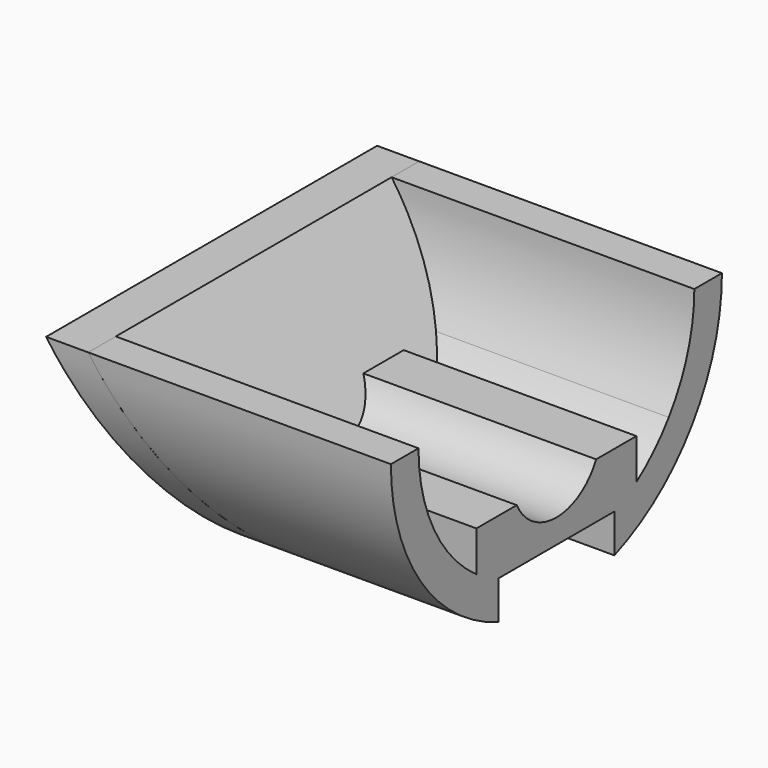
from build123d import *

# Parameters (mm, degrees)
F1_DEPTH      = 100
F3_DEPTH      = 79.9
F3_DEPTH_BACK = 98
F6_DEPTH      = 74.8
F6_DEPTH_BACK = 93.6
F7_DEPTH      = 115.8
F8_DEPTH      = 43


with BuildPart() as f1:
    # F0 (on Right) → F1 (new body)
    with BuildSketch(Plane.YZ):
        with BuildLine():
            Line((-50, 0), (-60, 0))
            ThreePointArc((-60, 0), (-49.2950301755, -34.205262753), (-21, -56.2049819856))
            Line((-21, -56.2049819856), (-21, -45.3762052182))
            ThreePointArc((-21, -45.3762052182), (-21.3980741453, -45.1898486706), (-21.7944947177, -45))
            ThreePointArc((-21.7944947177, -45), (-25.4867934421, -43.0165475142), (-29, -40.7308237088))
            ThreePointArc((-29, -40.7308237088), (-44.4409720866, -22.9128784748), (-50, 0))
        make_face()
        with BuildLine():
            Line((-29, -29), (-29, -40.7308237088))
            ThreePointArc((-29, -40.7308237088), (-25.4867934421, -43.0165475142), (-21.7944947177, -45))
            Line((-21.7944947177, -45), (-21, -45))
            Line((-21, -45), (21, -45))
            Line((21, -45), (21.7944947177, -45))
            ThreePointArc((21.7944947177, -45), (25.4867934421, -43.0165475142), (29, -40.7308237088))
            Line((29, -40.7308237088), (29, -29))
            Line((29, -29), (14.3874945699, -29))
            ThreePointArc((14.3874945699, -29), (0, -38), (-14.3874945699, -29))
            Line((-14.3874945699, -29), (-29, -29))
        make_face()
        with BuildLine():
            Line((21, -45.3762052182), (21, -56.2049819856))
            ThreePointArc((21, -56.2049819856), (49.2950301755, -34.205262753), (60, 0))
            Line((60, 0), (50, 0))
            ThreePointArc((50, 0), (47.626364471, -15.2226609789), (40.7308237088, -29))
            ThreePointArc((40.7308237088, -29), (35.3553390593, -35.3553390593), (29, -40.7308237088))
            ThreePointArc((29, -40.7308237088), (25.4867934421, -43.0165475142), (21.7944947177, -45))
            ThreePointArc((21.7944947177, -45), (21.3980741453, -45.1898486706), (21, -45.3762052182))
        make_face()
        with BuildLine():
            Line((21, -45), (21, -45.3762052182))
            ThreePointArc((21, -45.3762052182), (21.3980741453, -45.1898486706), (21.7944947177, -45))
            Line((21.7944947177, -45), (21, -45))
        make_face()
        with BuildLine():
            ThreePointArc((-21.7944947177, -45), (-21.3980741453, -45.1898486706), (-21, -45.3762052182))
            Line((-21, -45.3762052182), (-21, -45))
            Line((-21, -45), (-21.7944947177, -45))
        make_face()
        with BuildLine():
            Line((-21, -45), (-21, -45.3762052182))
            ThreePointArc((-21, -45.3762052182), (0, -50), (21, -45.3762052182))
            Line((21, -45.3762052182), (21, -45))
            Line((21, -45), (-21, -45))
        make_face()
        with BuildLine():
            Line((-21, -45.3762052182), (-21, -56.2049819856))
            ThreePointArc((-21, -56.2049819856), (0, -60), (21, -56.2049819856))
            Line((21, -56.2049819856), (21, -45.3762052182))
            ThreePointArc((21, -45.3762052182), (0, -50), (-21, -45.3762052182))
        make_face()
    extrude(amount=-F1_DEPTH)

    # F2 (on Front) → F3 (cut, two sides)
    with BuildSketch(Plane.XZ) as f3_sk:
        Polygon((-57.9875477074, -60), (-100, 0), (-87.7922533566, 0), (-91.80847905, 5.7357647186), (-123.0464950204, 5.7357647186), (-123.0464950204, -66.0766197592), (-41.5249061018, -66.0766197592), (-45.779801064, -60), align=None)
        Polygon((-87.7922533566, 0), (-100, 0), (-57.9875477074, -60), (-45.779801064, -60), align=None)
    extrude(amount=-F3_DEPTH, mode=Mode.SUBTRACT)
    extrude(f3_sk.sketch, amount=F3_DEPTH_BACK, mode=Mode.SUBTRACT)


with BuildPart() as f6:
    # F5 (on Front) → F6 (new body, two sides)
    with BuildSketch(Plane.XZ) as f6_sk:
        Polygon((-41.5249061018, -66.0766197592), (-91.80847905, 5.7357647186), (-104.0162256934, 5.7357647186), (-100, 0), (-56.8908456845, -61.5662528081), (-53.7326527452, -66.0766197592), align=None)
    extrude(amount=F6_DEPTH)
    extrude(f6_sk.sketch, amount=-F6_DEPTH_BACK)


with BuildPart() as f7_tool:
    # F0 (on Right) → F7 (new body)
    with BuildSketch(Plane.YZ):
        with BuildLine():
            Line((-50, 0), (-60, 0))
            ThreePointArc((-60, 0), (-49.2950301755, -34.205262753), (-21, -56.2049819856))
            Line((-21, -56.2049819856), (-21, -45.3762052182))
            ThreePointArc((-21, -45.3762052182), (-21.3980741453, -45.1898486706), (-21.7944947177, -45))
            ThreePointArc((-21.7944947177, -45), (-25.4867934421, -43.0165475142), (-29, -40.7308237088))
            ThreePointArc((-29, -40.7308237088), (-44.4409720866, -22.9128784748), (-50, 0))
        make_face()
        with BuildLine():
            Line((50, 0), (-50, 0))
            ThreePointArc((-50, 0), (-44.4409720866, -22.9128784748), (-29, -40.7308237088))
            Line((-29, -40.7308237088), (-29, -29))
            Line((-29, -29), (-14.3874945699, -29))
            ThreePointArc((-14.3874945699, -29), (-3.5916630466, -6.4083369534), (16, -22))
            ThreePointArc((16, -22), (15.5916630466, -25.5916630466), (14.3874945699, -29))
            Line((14.3874945699, -29), (29, -29))
            Line((29, -29), (40.7308237088, -29))
            ThreePointArc((40.7308237088, -29), (47.626364471, -15.2226609789), (50, 0))
        make_face()
        with BuildLine():
            ThreePointArc((16, -22), (-3.5916630466, -6.4083369534), (-14.3874945699, -29))
            Line((-14.3874945699, -29), (14.3874945699, -29))
            ThreePointArc((14.3874945699, -29), (15.5916630466, -25.5916630466), (16, -22))
        make_face()
        with BuildLine():
            Line((21, -45.3762052182), (21, -56.2049819856))
            ThreePointArc((21, -56.2049819856), (49.2950301755, -34.205262753), (60, 0))
            Line((60, 0), (50, 0))
            ThreePointArc((50, 0), (47.626364471, -15.2226609789), (40.7308237088, -29))
            ThreePointArc((40.7308237088, -29), (35.3553390593, -35.3553390593), (29, -40.7308237088))
            ThreePointArc((29, -40.7308237088), (25.4867934421, -43.0165475142), (21.7944947177, -45))
            ThreePointArc((21.7944947177, -45), (21.3980741453, -45.1898486706), (21, -45.3762052182))
        make_face()
        with BuildLine():
            Line((14.3874945699, -29), (-14.3874945699, -29))
            ThreePointArc((-14.3874945699, -29), (0, -38), (14.3874945699, -29))
        make_face()
        with BuildLine():
            Line((-29, -29), (-29, -40.7308237088))
            ThreePointArc((-29, -40.7308237088), (-25.4867934421, -43.0165475142), (-21.7944947177, -45))
            Line((-21.7944947177, -45), (-21, -45))
            Line((-21, -45), (21, -45))
            Line((21, -45), (21.7944947177, -45))
            ThreePointArc((21.7944947177, -45), (25.4867934421, -43.0165475142), (29, -40.7308237088))
            Line((29, -40.7308237088), (29, -29))
            Line((29, -29), (14.3874945699, -29))
            ThreePointArc((14.3874945699, -29), (0, -38), (-14.3874945699, -29))
            Line((-14.3874945699, -29), (-29, -29))
        make_face()
        with BuildLine():
            ThreePointArc((29, -40.7308237088), (35.3553390593, -35.3553390593), (40.7308237088, -29))
            Line((40.7308237088, -29), (29, -29))
            Line((29, -29), (29, -40.7308237088))
        make_face()
        with BuildLine():
            Line((-21, -45), (-21, -45.3762052182))
            ThreePointArc((-21, -45.3762052182), (0, -50), (21, -45.3762052182))
            Line((21, -45.3762052182), (21, -45))
            Line((21, -45), (-21, -45))
        make_face()
        with BuildLine():
            Line((-21, -45.3762052182), (-21, -56.2049819856))
            ThreePointArc((-21, -56.2049819856), (0, -60), (21, -56.2049819856))
            Line((21, -56.2049819856), (21, -45.3762052182))
            ThreePointArc((21, -45.3762052182), (0, -50), (-21, -45.3762052182))
        make_face()
        with BuildLine():
            Line((21, -45), (21, -45.3762052182))
            ThreePointArc((21, -45.3762052182), (21.3980741453, -45.1898486706), (21.7944947177, -45))
            Line((21.7944947177, -45), (21, -45))
        make_face()
        with BuildLine():
            ThreePointArc((-21.7944947177, -45), (-21.3980741453, -45.1898486706), (-21, -45.3762052182))
            Line((-21, -45.3762052182), (-21, -45))
            Line((-21, -45), (-21.7944947177, -45))
        make_face()
    extrude(amount=-F7_DEPTH)


with BuildPart() as f1_1:
    add(f1.part)

    # F7: intersect by f7_tool
    add(f7_tool.part, mode=Mode.INTERSECT)

    # F0 (on Right) → F8 (cut)
    with BuildSketch(Plane.YZ):
        with BuildLine():
            Line((-21, -45), (-21, -45.3762052182))
            ThreePointArc((-21, -45.3762052182), (0, -50), (21, -45.3762052182))
            Line((21, -45.3762052182), (21, -45))
            Line((21, -45), (-21, -45))
        make_face()
        with BuildLine():
            Line((-21, -45.3762052182), (-21, -56.2049819856))
            ThreePointArc((-21, -56.2049819856), (0, -60), (21, -56.2049819856))
            Line((21, -56.2049819856), (21, -45.3762052182))
            ThreePointArc((21, -45.3762052182), (0, -50), (-21, -45.3762052182))
        make_face()
    extrude(amount=-F8_DEPTH, mode=Mode.SUBTRACT)


with BuildPart() as f6_1:
    add(f6.part)

    # F7: intersect by f7_tool
    add(f7_tool.part, mode=Mode.INTERSECT)


solid = Compound([f1_1.part, f6_1.part])
